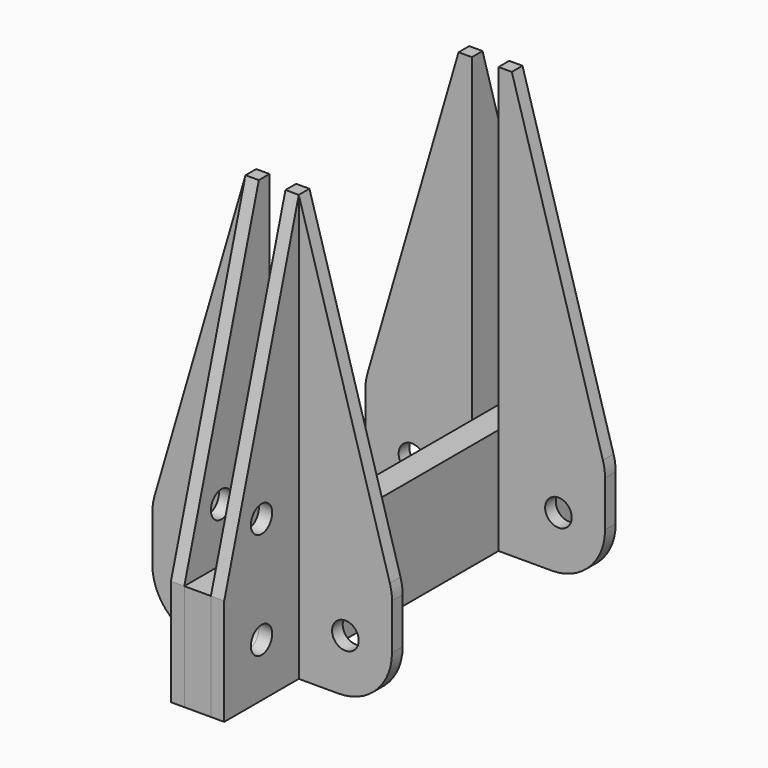
from build123d import *

# Parameters (mm, degrees)
F1_DEPTH = 101.6
F2_R     = 3.175
F3_DEPTH = 101.6
F4_DEPTH = 25.4
F5_R     = 3.175
F6_DEPTH = 50.8


with BuildPart() as f1:
    # F0 (on Top) → F1 (new body)
    with BuildSketch(Plane.XY):
        Polygon((-28.575, 33.3375), (-28.575, 30.1625), (-3.175, 30.1625), (-3.175, 55.5625), (-6.35, 55.5625), (-6.35, 33.3375), align=None)
        Polygon((6.35, 55.5625), (3.175, 55.5625), (3.175, 30.1625), (28.575, 30.1625), (28.575, 33.3375), (6.35, 33.3375), align=None)
        Polygon((3.175, -30.1625), (3.175, -55.5625), (6.35, -55.5625), (6.35, -33.3375), (28.575, -33.3375), (28.575, -30.1625), align=None)
        Polygon((-3.175, -55.5625), (-3.175, -30.1625), (-28.575, -30.1625), (-28.575, -33.3375), (-6.35, -33.3375), (-6.35, -55.5625), align=None)
    extrude(amount=F1_DEPTH)

    # F2 (on Front) → F3 (intersect, symmetric)
    with BuildSketch(Plane.XZ):
        with BuildLine():
            ThreePointArc((28.575, 23.585714), (28.447359, 25.381766), (28.067, 27.141714))
            Line((28.067, 27.141714), (6.35, 101.6))
            Line((6.35, 101.6), (-6.35, 101.6))
            Line((-6.35, 101.6), (-28.067, 27.141714))
            ThreePointArc((-28.067, 27.141714), (-28.447359, 25.381766), (-28.575, 23.585714))
            Line((-28.575, 23.585714), (-28.575, 12.7))
            ThreePointArc((-28.575, 12.7), (-24.855256, 3.719744), (-15.875, 0))
            Line((-15.875, 0), (15.875, 0))
            ThreePointArc((15.875, 0), (24.855256, 3.719744), (28.575, 12.7))
            Line((28.575, 12.7), (28.575, 23.585714))
        make_face()
        with Locations((-17.4625, 12.7)):
            Circle(F2_R, mode=Mode.SUBTRACT)
        with Locations((17.4625, 12.7)):
            Circle(F2_R, mode=Mode.SUBTRACT)
    extrude(amount=F3_DEPTH, both=True, mode=Mode.INTERSECT)


with BuildPart() as f4:
    # F0 (on Top) → F4 (new body)
    with BuildSketch(Plane.XY):
        Polygon((-3.175, 55.5625), (-3.175, 30.1625), (-3.175, -30.1625), (-3.175, -55.5625), (3.175, -55.5625), (3.175, -30.1625), (3.175, 30.1625), (3.175, 55.5625), align=None)
        Polygon((-3.175, 55.5625), (-3.175, 30.1625), (-3.175, -30.1625), (-3.175, -55.5625), (3.175, -55.5625), (3.175, -30.1625), (3.175, 30.1625), (3.175, 55.5625), align=None)
    extrude(amount=F4_DEPTH)


with BuildPart() as f6_tool:
    # F5 (on Right) → F6 (new body, symmetric)
    with BuildSketch(Plane.YZ):
        with Locations((-44.45, 12.7)):
            Circle(F5_R)
        with Locations((-44.45, 38.1)):
            Circle(F5_R)
        with Locations((44.45, 38.1)):
            Circle(F5_R)
        with Locations((44.45, 12.7)):
            Circle(F5_R)
        Polygon((33.3375, 101.6), (55.5625, 25.4), (55.5625, 101.6), align=None)
        Polygon((-55.5625, 101.6), (-55.5625, 25.4), (-33.3375, 101.6), align=None)
    extrude(amount=F6_DEPTH, both=True)


with BuildPart() as f1_1:
    add(f1.part)

    # F6: cut by f6_tool
    add(f6_tool.part, mode=Mode.SUBTRACT)


with BuildPart() as f4_1:
    add(f4.part)

    # F6: cut by f6_tool
    add(f6_tool.part, mode=Mode.SUBTRACT)


solid = Compound([f1_1.part, f4_1.part])
